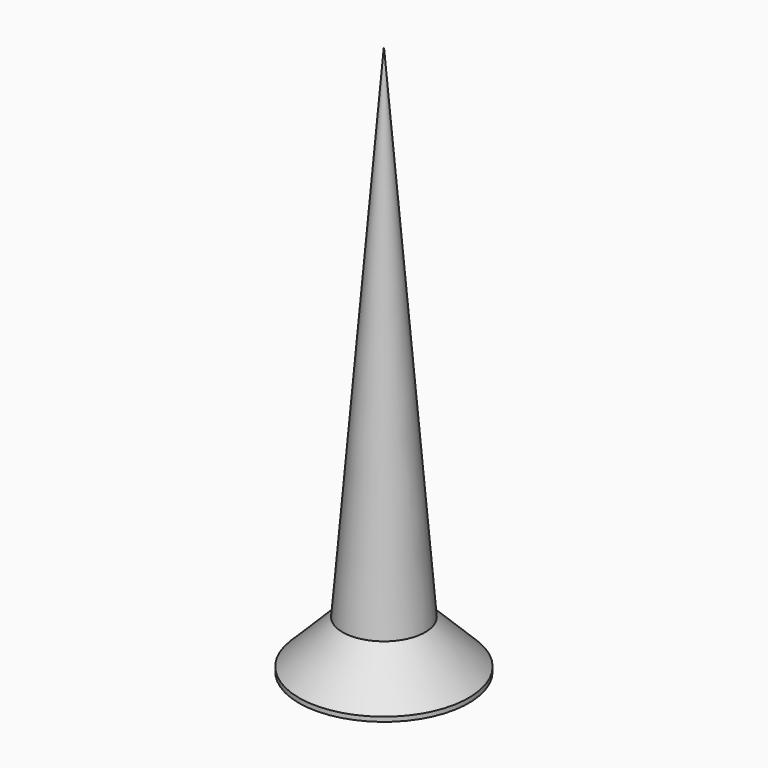
from build123d import *

# Parameters (mm, degrees)
POCKET002_DEPTH         = 0.2
POLARPATTERN002_COUNT   = 2
POLARPATTERN002_ANGLE   = 90
BODY006_PLACEMENT_ANGLE = 180


with BuildPart() as part:
    # Sketch012 → Revolution002 (revolve)
    with BuildSketch(Plane.XZ):
        Polygon((0, 0), (0, -12), (0.9, -1.05), (1.85, -0.1), (1.85, 0), align=None)
    revolve(axis=Axis((0, 0, 0), (0, 0, 1)))

    # Sketch011 → Pocket002 (cut, symmetric)
    with BuildSketch(Plane.XZ):
        Polygon((-1.15, 0), (0, -1.15), (1.15, 0), align=None)
    pocket002 = extrude(amount=POCKET002_DEPTH, both=True, mode=Mode.SUBTRACT)

    # PolarPattern002: Pocket002 ×2 about axis
    polarpattern002_axis = Axis((0, 0, 0), (0, 0, 1))
    for i in range(1, POLARPATTERN002_COUNT):
        add(pocket002.rotate(polarpattern002_axis, i * POLARPATTERN002_ANGLE / (POLARPATTERN002_COUNT - 1)), mode=Mode.SUBTRACT)


with BuildPart() as part_1:
    # Body006 placement: moved
    add(part.part.moved(Location((12, 21, -6.7))).rotate(Axis((12, 21, -6.7), (0, 1, 0)), BODY006_PLACEMENT_ANGLE))


solid = part_1.part
